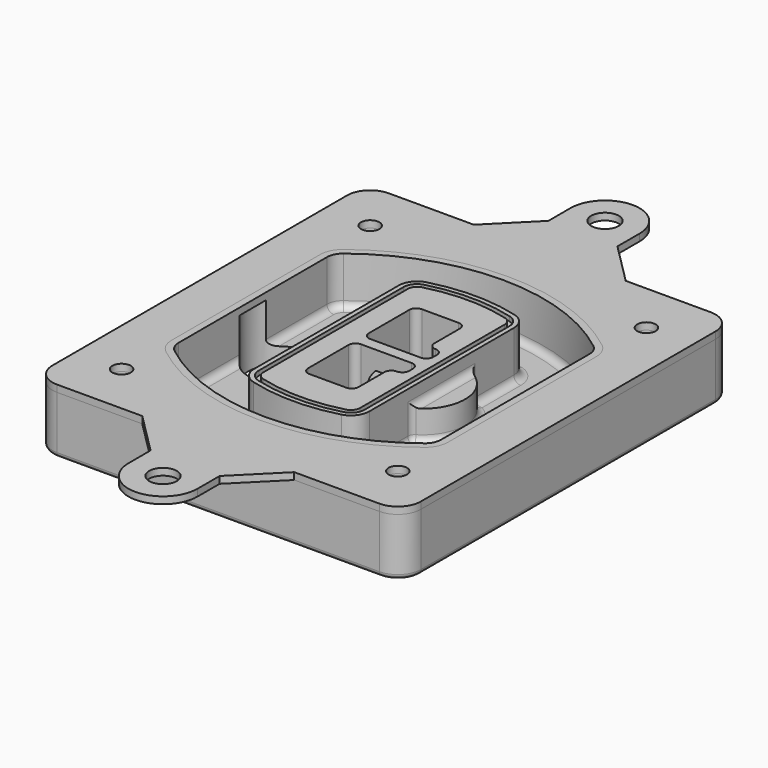
from build123d import *

# Parameters (mm, degrees)
F0_R      = 4
F1_DEPTH  = 25
F2_DEPTH  = 3
F3_DEPTH  = 18
F5_DEPTH  = 21
F6_DEPTH  = 2
F8_DEPTH  = 20
F9_DEPTH  = 16
F10_DEPTH = 25
F7_R      = 6
F7_R_2    = 4
F11_DEPTH = 6
F13_DEPTH = 9
F14_R     = 3
F15_R     = 2
F16_R     = 6
F16_R_2   = 4
F17_DEPTH = 3


with BuildPart() as f1:
    # F0 (on Top) → F1 (new body)
    with BuildSketch(Plane.XY):
        with BuildLine():
            ThreePointArc((-80, -80), (-77.0710678119, -87.0710678119), (-70, -90))
            Line((-70, -90), (70, -90))
            ThreePointArc((70, -90), (77.0710678119, -87.0710678119), (80, -80))
            Line((80, -80), (80, 80))
            ThreePointArc((80, 80), (77.0710678119, 87.0710678119), (70, 90))
            Line((70, 90), (-70, 90))
            ThreePointArc((-70, 90), (-77.0710678119, 87.0710678119), (-80, 80))
            Line((-80, 80), (-80, -80))
        make_face()
        with Locations((-60, -67.5)):
            Circle(F0_R, mode=Mode.SUBTRACT)
        with Locations((60, -67.5)):
            Circle(F0_R, mode=Mode.SUBTRACT)
        with Locations((-60, 67.5)):
            Circle(F0_R, mode=Mode.SUBTRACT)
        with BuildLine():
            ThreePointArc((-64, 40.2934422872), (-62.5820384798, 46.4328484224), (-58.6153846154, 51.3286200352))
            ThreePointArc((-58.6153846154, 51.3286200352), (0, 71.5), (58.6153846154, 51.3286200352))
            ThreePointArc((58.6153846154, 51.3286200352), (62.5820384798, 46.4328484224), (64, 40.2934422872))
            Line((64, 40.2934422872), (64, -40.2934422872))
            ThreePointArc((64, -40.2934422872), (62.5820384798, -46.4328484224), (58.6153846154, -51.3286200352))
            ThreePointArc((58.6153846154, -51.3286200352), (0, -71.5), (-58.6153846154, -51.3286200352))
            ThreePointArc((-58.6153846154, -51.3286200352), (-62.5820384798, -46.4328484224), (-64, -40.2934422872))
            Line((-64, -40.2934422872), (-64, 40.2934422872))
        make_face(mode=Mode.SUBTRACT)
        with Locations((60, 67.5)):
            Circle(F0_R, mode=Mode.SUBTRACT)
        with BuildLine():
            ThreePointArc((58.6153846154, 51.3286200352), (0, 71.5), (-58.6153846154, 51.3286200352))
            ThreePointArc((-58.6153846154, 51.3286200352), (-62.5820384798, 46.4328484224), (-64, 40.2934422872))
            Line((-64, 40.2934422872), (-64, -40.2934422872))
            ThreePointArc((-64, -40.2934422872), (-62.5820384798, -46.4328484224), (-58.6153846154, -51.3286200352))
            ThreePointArc((-58.6153846154, -51.3286200352), (0, -71.5), (58.6153846154, -51.3286200352))
            ThreePointArc((58.6153846154, -51.3286200352), (62.5820384798, -46.4328484224), (64, -40.2934422872))
            Line((64, -40.2934422872), (64, 40.2934422872))
            ThreePointArc((64, 40.2934422872), (62.5820384798, 46.4328484224), (58.6153846154, 51.3286200352))
        make_face()
        with BuildLine():
            Line((-60, -40.2934422872), (-60, 40.2934422872))
            ThreePointArc((-60, 40.2934422872), (-58.9871703427, 44.6787323838), (-56.1538461538, 48.1757121072))
            ThreePointArc((-56.1538461538, 48.1757121072), (0, 67.5), (56.1538461538, 48.1757121072))
            ThreePointArc((56.1538461538, 48.1757121072), (58.9871703427, 44.6787323838), (60, 40.2934422872))
            Line((60, 40.2934422872), (60, -40.2934422872))
            ThreePointArc((60, -40.2934422872), (58.9871703427, -44.6787323838), (56.1538461538, -48.1757121072))
            ThreePointArc((56.1538461538, -48.1757121072), (0, -67.5), (-56.1538461538, -48.1757121072))
            ThreePointArc((-56.1538461538, -48.1757121072), (-58.9871703427, -44.6787323838), (-60, -40.2934422872))
        make_face(mode=Mode.SUBTRACT)
        with BuildLine():
            ThreePointArc((-56.1538461538, 48.1757121072), (-58.9871703427, 44.6787323838), (-60, 40.2934422872))
            Line((-60, 40.2934422872), (-60, -40.2934422872))
            ThreePointArc((-60, -40.2934422872), (-58.9871703427, -44.6787323838), (-56.1538461538, -48.1757121072))
            ThreePointArc((-56.1538461538, -48.1757121072), (0, -67.5), (56.1538461538, -48.1757121072))
            ThreePointArc((56.1538461538, -48.1757121072), (58.9871703427, -44.6787323838), (60, -40.2934422872))
            Line((60, -40.2934422872), (60, 40.2934422872))
            ThreePointArc((60, 40.2934422872), (58.9871703427, 44.6787323838), (56.1538461538, 48.1757121072))
            ThreePointArc((56.1538461538, 48.1757121072), (0, 67.5), (-56.1538461538, 48.1757121072))
        make_face()
        with BuildLine():
            ThreePointArc((54.3076923077, 45.8110311612), (56.2910192399, 43.3631453548), (57, 40.2934422872))
            Line((57, 40.2934422872), (57, -40.2934422872))
            ThreePointArc((57, -40.2934422872), (56.2910192399, -43.3631453548), (54.3076923077, -45.8110311612))
            ThreePointArc((54.3076923077, -45.8110311612), (0, -64.5), (-54.3076923077, -45.8110311612))
            ThreePointArc((-54.3076923077, -45.8110311612), (-56.2910192399, -43.3631453548), (-57, -40.2934422872))
            Line((-57, -40.2934422872), (-57, 40.2934422872))
            ThreePointArc((-57, 40.2934422872), (-56.2910192399, 43.3631453548), (-54.3076923077, 45.8110311612))
            ThreePointArc((-54.3076923077, 45.8110311612), (0, 64.5), (54.3076923077, 45.8110311612))
        make_face(mode=Mode.SUBTRACT)
        with BuildLine():
            Line((57, -40.2934422872), (57, 40.2934422872))
            ThreePointArc((57, 40.2934422872), (56.2910192399, 43.3631453548), (54.3076923077, 45.8110311612))
            ThreePointArc((54.3076923077, 45.8110311612), (0, 64.5), (-54.3076923077, 45.8110311612))
            ThreePointArc((-54.3076923077, 45.8110311612), (-56.2910192399, 43.3631453548), (-57, 40.2934422872))
            Line((-57, 40.2934422872), (-57, -40.2934422872))
            ThreePointArc((-57, -40.2934422872), (-56.2910192399, -43.3631453548), (-54.3076923077, -45.8110311612))
            ThreePointArc((-54.3076923077, -45.8110311612), (0, -64.5), (54.3076923077, -45.8110311612))
            ThreePointArc((54.3076923077, -45.8110311612), (56.2910192399, -43.3631453548), (57, -40.2934422872))
        make_face()
    extrude(amount=-F1_DEPTH)

    # F0 (on Top) → F2 (join)
    with BuildSketch(Plane.XY):
        with BuildLine():
            ThreePointArc((-56.1538461538, 48.1757121072), (-58.9871703427, 44.6787323838), (-60, 40.2934422872))
            Line((-60, 40.2934422872), (-60, -40.2934422872))
            ThreePointArc((-60, -40.2934422872), (-58.9871703427, -44.6787323838), (-56.1538461538, -48.1757121072))
            ThreePointArc((-56.1538461538, -48.1757121072), (0, -67.5), (56.1538461538, -48.1757121072))
            ThreePointArc((56.1538461538, -48.1757121072), (58.9871703427, -44.6787323838), (60, -40.2934422872))
            Line((60, -40.2934422872), (60, 40.2934422872))
            ThreePointArc((60, 40.2934422872), (58.9871703427, 44.6787323838), (56.1538461538, 48.1757121072))
            ThreePointArc((56.1538461538, 48.1757121072), (0, 67.5), (-56.1538461538, 48.1757121072))
        make_face()
        with BuildLine():
            ThreePointArc((54.3076923077, 45.8110311612), (56.2910192399, 43.3631453548), (57, 40.2934422872))
            Line((57, 40.2934422872), (57, -40.2934422872))
            ThreePointArc((57, -40.2934422872), (56.2910192399, -43.3631453548), (54.3076923077, -45.8110311612))
            ThreePointArc((54.3076923077, -45.8110311612), (0, -64.5), (-54.3076923077, -45.8110311612))
            ThreePointArc((-54.3076923077, -45.8110311612), (-56.2910192399, -43.3631453548), (-57, -40.2934422872))
            Line((-57, -40.2934422872), (-57, 40.2934422872))
            ThreePointArc((-57, 40.2934422872), (-56.2910192399, 43.3631453548), (-54.3076923077, 45.8110311612))
            ThreePointArc((-54.3076923077, 45.8110311612), (0, 64.5), (54.3076923077, 45.8110311612))
        make_face(mode=Mode.SUBTRACT)
    extrude(amount=F2_DEPTH)

    # F0 (on Top) → F3 (cut)
    with BuildSketch(Plane.XY):
        with BuildLine():
            Line((57, -40.2934422872), (57, 40.2934422872))
            ThreePointArc((57, 40.2934422872), (56.2910192399, 43.3631453548), (54.3076923077, 45.8110311612))
            ThreePointArc((54.3076923077, 45.8110311612), (0, 64.5), (-54.3076923077, 45.8110311612))
            ThreePointArc((-54.3076923077, 45.8110311612), (-56.2910192399, 43.3631453548), (-57, 40.2934422872))
            Line((-57, 40.2934422872), (-57, -40.2934422872))
            ThreePointArc((-57, -40.2934422872), (-56.2910192399, -43.3631453548), (-54.3076923077, -45.8110311612))
            ThreePointArc((-54.3076923077, -45.8110311612), (0, -64.5), (54.3076923077, -45.8110311612))
            ThreePointArc((54.3076923077, -45.8110311612), (56.2910192399, -43.3631453548), (57, -40.2934422872))
        make_face()
    extrude(amount=-F3_DEPTH, mode=Mode.SUBTRACT)

    # F4 (on face) → F5 (join, through all)
    with BuildSketch(Plane.XY.offset(3)):
        with BuildLine():
            ThreePointArc((-25, -39.2465276821), (-23.3511545998, -44.1109737193), (-19.0842911877, -46.9702398883))
            ThreePointArc((-19.0842911877, -46.9702398883), (0, -49.5), (19.0842911877, -46.9702398883))
            ThreePointArc((19.0842911877, -46.9702398883), (23.3511545998, -44.1109737193), (25, -39.2465276821))
            Line((25, -39.2465276821), (25, 39.2465276821))
            ThreePointArc((25, 39.2465276821), (23.3511545998, 44.1109737193), (19.0842911877, 46.9702398883))
            ThreePointArc((19.0842911877, 46.9702398883), (0, 49.5), (-19.0842911877, 46.9702398883))
            ThreePointArc((-19.0842911877, 46.9702398883), (-23.3511545998, 44.1109737193), (-25, 39.2465276821))
            Line((-25, 39.2465276821), (-25, -39.2465276821))
        make_face()
        with BuildLine():
            ThreePointArc((18.5632183908, 45.0393118368), (21.7633659499, 42.89486221), (23, 39.2465276821))
            Line((23, 39.2465276821), (23, -39.2465276821))
            ThreePointArc((23, -39.2465276821), (21.7633659499, -42.89486221), (18.5632183908, -45.0393118368))
            ThreePointArc((18.5632183908, -45.0393118368), (0, -47.5), (-18.5632183908, -45.0393118368))
            ThreePointArc((-18.5632183908, -45.0393118368), (-21.7633659499, -42.89486221), (-23, -39.2465276821))
            Line((-23, -39.2465276821), (-23, 39.2465276821))
            ThreePointArc((-23, 39.2465276821), (-21.7633659499, 42.89486221), (-18.5632183908, 45.0393118368))
            ThreePointArc((-18.5632183908, 45.0393118368), (0, 47.5), (18.5632183908, 45.0393118368))
        make_face(mode=Mode.SUBTRACT)
        with BuildLine():
            Line((23, -39.2465276821), (23, 39.2465276821))
            ThreePointArc((23, 39.2465276821), (21.7633659499, 42.89486221), (18.5632183908, 45.0393118368))
            ThreePointArc((18.5632183908, 45.0393118368), (0, 47.5), (-18.5632183908, 45.0393118368))
            ThreePointArc((-18.5632183908, 45.0393118368), (-21.7633659499, 42.89486221), (-23, 39.2465276821))
            Line((-23, 39.2465276821), (-23, -39.2465276821))
            ThreePointArc((-23, -39.2465276821), (-21.7633659499, -42.89486221), (-18.5632183908, -45.0393118368))
            ThreePointArc((-18.5632183908, -45.0393118368), (0, -47.5), (18.5632183908, -45.0393118368))
            ThreePointArc((18.5632183908, -45.0393118368), (21.7633659499, -42.89486221), (23, -39.2465276821))
        make_face()
        with BuildLine():
            ThreePointArc((18.0421455939, 43.1083837852), (20.1755772999, 41.6787507007), (21, 39.2465276821))
            Line((21, 39.2465276821), (21, -39.2465276821))
            ThreePointArc((21, -39.2465276821), (20.1755772999, -41.6787507007), (18.0421455939, -43.1083837852))
            ThreePointArc((18.0421455939, -43.1083837852), (0, -45.5), (-18.0421455939, -43.1083837852))
            ThreePointArc((-18.0421455939, -43.1083837852), (-20.1755772999, -41.6787507007), (-21, -39.2465276821))
            Line((-21, -39.2465276821), (-21, 39.2465276821))
            ThreePointArc((-21, 39.2465276821), (-20.1755772999, 41.6787507007), (-18.0421455939, 43.1083837852))
            ThreePointArc((-18.0421455939, 43.1083837852), (0, 45.5), (18.0421455939, 43.1083837852))
        make_face(mode=Mode.SUBTRACT)
        with BuildLine():
            Line((21, -39.2465276821), (21, 39.2465276821))
            ThreePointArc((21, 39.2465276821), (20.1755772999, 41.6787507007), (18.0421455939, 43.1083837852))
            ThreePointArc((18.0421455939, 43.1083837852), (0, 45.5), (-18.0421455939, 43.1083837852))
            ThreePointArc((-18.0421455939, 43.1083837852), (-20.1755772999, 41.6787507007), (-21, 39.2465276821))
            Line((-21, 39.2465276821), (-21, -39.2465276821))
            ThreePointArc((-21, -39.2465276821), (-20.1755772999, -41.6787507007), (-18.0421455939, -43.1083837852))
            ThreePointArc((-18.0421455939, -43.1083837852), (0, -45.5), (18.0421455939, -43.1083837852))
            ThreePointArc((18.0421455939, -43.1083837852), (20.1755772999, -41.6787507007), (21, -39.2465276821))
        make_face()
        with BuildLine():
            Line((-8, -2.5), (14, -2.5))
            ThreePointArc((14, -2.5), (16.1213203436, -3.3786796564), (17, -5.5))
            Line((17, -5.5), (17, -7.5))
            ThreePointArc((17, -7.5), (16.1213203436, -9.6213203436), (14, -10.5))
            ThreePointArc((14, -10.5), (11.8786796564, -11.3786796564), (11, -13.5))
            Line((11, -13.5), (11, -27.5))
            ThreePointArc((11, -27.5), (10.1213203436, -29.6213203436), (8, -30.5))
            Line((8, -30.5), (-8, -30.5))
            ThreePointArc((-8, -30.5), (-10.1213203436, -29.6213203436), (-11, -27.5))
            Line((-11, -27.5), (-11, -5.5))
            ThreePointArc((-11, -5.5), (-10.1213203436, -3.3786796564), (-8, -2.5))
        make_face(mode=Mode.SUBTRACT)
        with BuildLine():
            ThreePointArc((-8, 2.5), (-10.1213203436, 3.3786796564), (-11, 5.5))
            Line((-11, 5.5), (-11, 27.5))
            ThreePointArc((-11, 27.5), (-10.1213203436, 29.6213203436), (-8, 30.5))
            Line((-8, 30.5), (8, 30.5))
            ThreePointArc((8, 30.5), (10.1213203436, 29.6213203436), (11, 27.5))
            Line((11, 27.5), (11, 13.5))
            ThreePointArc((11, 13.5), (11.8786796564, 11.3786796564), (14, 10.5))
            ThreePointArc((14, 10.5), (16.1213203436, 9.6213203436), (17, 7.5))
            Line((17, 7.5), (17, 5.5))
            ThreePointArc((17, 5.5), (16.1213203436, 3.3786796564), (14, 2.5))
            Line((14, 2.5), (-8, 2.5))
        make_face(mode=Mode.SUBTRACT)
    extrude(amount=-F5_DEPTH)

    # F4 (on face) → F6 (cut)
    with BuildSketch(Plane.XY.offset(3)):
        with BuildLine():
            Line((23, -39.2465276821), (23, 39.2465276821))
            ThreePointArc((23, 39.2465276821), (21.7633659499, 42.89486221), (18.5632183908, 45.0393118368))
            ThreePointArc((18.5632183908, 45.0393118368), (0, 47.5), (-18.5632183908, 45.0393118368))
            ThreePointArc((-18.5632183908, 45.0393118368), (-21.7633659499, 42.89486221), (-23, 39.2465276821))
            Line((-23, 39.2465276821), (-23, -39.2465276821))
            ThreePointArc((-23, -39.2465276821), (-21.7633659499, -42.89486221), (-18.5632183908, -45.0393118368))
            ThreePointArc((-18.5632183908, -45.0393118368), (0, -47.5), (18.5632183908, -45.0393118368))
            ThreePointArc((18.5632183908, -45.0393118368), (21.7633659499, -42.89486221), (23, -39.2465276821))
        make_face()
        with BuildLine():
            ThreePointArc((18.0421455939, 43.1083837852), (20.1755772999, 41.6787507007), (21, 39.2465276821))
            Line((21, 39.2465276821), (21, -39.2465276821))
            ThreePointArc((21, -39.2465276821), (20.1755772999, -41.6787507007), (18.0421455939, -43.1083837852))
            ThreePointArc((18.0421455939, -43.1083837852), (0, -45.5), (-18.0421455939, -43.1083837852))
            ThreePointArc((-18.0421455939, -43.1083837852), (-20.1755772999, -41.6787507007), (-21, -39.2465276821))
            Line((-21, -39.2465276821), (-21, 39.2465276821))
            ThreePointArc((-21, 39.2465276821), (-20.1755772999, 41.6787507007), (-18.0421455939, 43.1083837852))
            ThreePointArc((-18.0421455939, 43.1083837852), (0, 45.5), (18.0421455939, 43.1083837852))
        make_face(mode=Mode.SUBTRACT)
    extrude(amount=-F6_DEPTH, mode=Mode.SUBTRACT)

    # F7 (on face) → F8 (join)
    with BuildSketch(Plane(origin=(0, 0, -25), x_dir=(1, 0, 0), z_dir=(0, 0, -1))):
        with BuildLine():
            ThreePointArc((3.28842436, 0), (16.7567035675, 13.4682792075), (30.224982775, 0))
            Line((30.224982775, 0), (35.224982775, 0))
            ThreePointArc((35.224982775, 0), (16.7567035675, 18.4682792075), (-1.71157564, 0))
            Line((-1.71157564, 0), (3.28842436, 0))
        make_face()
        with BuildLine():
            Line((3.28842436, 0), (30.224982775, 0))
            ThreePointArc((30.224982775, 0), (16.7567035675, 13.4682792075), (3.28842436, 0))
        make_face()
        with BuildLine():
            ThreePointArc((3.28842436, 0), (16.7567035675, -13.4682792075), (30.224982775, 0))
            Line((30.224982775, 0), (3.28842436, 0))
        make_face()
        with BuildLine():
            Line((35.224982775, 0), (30.224982775, 0))
            ThreePointArc((30.224982775, 0), (16.7567035675, -13.4682792075), (3.28842436, 0))
            Line((3.28842436, 0), (-1.71157564, 0))
            ThreePointArc((-1.71157564, 0), (16.7567035675, -18.4682792075), (35.224982775, 0))
        make_face()
    extrude(amount=-F8_DEPTH)

    # F7 (on face) → F9 (cut)
    with BuildSketch(Plane(origin=(0, 0, -25), x_dir=(1, 0, 0), z_dir=(0, 0, -1))):
        with BuildLine():
            Line((3.28842436, 0), (30.224982775, 0))
            ThreePointArc((30.224982775, 0), (16.7567035675, 13.4682792075), (3.28842436, 0))
        make_face()
        with BuildLine():
            ThreePointArc((3.28842436, 0), (16.7567035675, -13.4682792075), (30.224982775, 0))
            Line((30.224982775, 0), (3.28842436, 0))
        make_face()
    extrude(amount=-F9_DEPTH, mode=Mode.SUBTRACT)

    # F7 (on face) → F10 (cut)
    with BuildSketch(Plane(origin=(0, 0, -25), x_dir=(1, 0, 0), z_dir=(0, 0, -1))):
        with BuildLine():
            Line((-59.0318229325, 0), (-32.0952645175, 0))
            ThreePointArc((-32.0952645175, 0), (-45.563543725, 13.4682792075), (-59.0318229325, 0))
        make_face()
        with BuildLine():
            ThreePointArc((-59.0318229325, 0), (-45.563543725, -13.4682792075), (-32.0952645175, 0))
            Line((-32.0952645175, 0), (-59.0318229325, 0))
        make_face()
    extrude(amount=-F10_DEPTH, mode=Mode.SUBTRACT)

    # F7 (on face) → F11 (cut)
    with BuildSketch(Plane(origin=(0, 0, -25), x_dir=(1, 0, 0), z_dir=(0, 0, -1))):
        with Locations((60, -67.5)):
            Circle(F7_R)
        with Locations((60, -67.5)):
            Circle(F7_R_2, mode=Mode.SUBTRACT)
        with Locations((60, -67.5)):
            Circle(F7_R)
        with Locations((60, -67.5)):
            Circle(F7_R_2, mode=Mode.SUBTRACT)
        with Locations((-60, -67.5)):
            Circle(F7_R)
        with Locations((-60, -67.5)):
            Circle(F7_R_2, mode=Mode.SUBTRACT)
        with Locations((-60, -67.5)):
            Circle(F7_R)
        with Locations((-60, -67.5)):
            Circle(F7_R_2, mode=Mode.SUBTRACT)
        with Locations((-60, 67.5)):
            Circle(F7_R)
        with Locations((-60, 67.5)):
            Circle(F7_R_2, mode=Mode.SUBTRACT)
        with Locations((-60, 67.5)):
            Circle(F7_R)
        with Locations((-60, 67.5)):
            Circle(F7_R_2, mode=Mode.SUBTRACT)
        with Locations((60, 67.5)):
            Circle(F7_R)
        with Locations((60, 67.5)):
            Circle(F7_R_2, mode=Mode.SUBTRACT)
        with Locations((60, 67.5)):
            Circle(F7_R)
        with Locations((60, 67.5)):
            Circle(F7_R_2, mode=Mode.SUBTRACT)
    extrude(amount=-F11_DEPTH, mode=Mode.SUBTRACT)

    # F12 (on face) → F13 (cut, through all)
    with BuildSketch(Plane(origin=(0, 0, -9), x_dir=(1, 0, 0), z_dir=(0, 0, -1))):
        with BuildLine():
            Line((11, 13.5), (11, 17.5481537753))
            ThreePointArc((11, 17.5481537753), (2.5696536419, 11.8239143813), (-1.5415842455, 2.5))
            Line((-1.5415842455, 2.5), (3.5224848595, 2.5))
            ThreePointArc((3.5224848595, 2.5), (6.1857188154, 8.3455872281), (11.2536447004, 12.2927168648))
            ThreePointArc((11.2536447004, 12.2927168648), (11.0640958889, 12.8831798879), (11, 13.5))
        make_face()
        with BuildLine():
            ThreePointArc((11.2536447004, -12.2927168648), (6.1857188154, -8.3455872281), (3.5224848595, -2.5))
            Line((3.5224848595, -2.5), (-1.5415842455, -2.5))
            ThreePointArc((-1.5415842455, -2.5), (2.5696536419, -11.8239143813), (11, -17.5481537753))
            Line((11, -17.5481537753), (11, -13.5))
            ThreePointArc((11, -13.5), (11.0640958889, -12.8831798879), (11.2536447004, -12.2927168648))
        make_face()
        with BuildLine():
            ThreePointArc((11.2536447004, 12.2927168648), (6.1857188154, 8.3455872281), (3.5224848595, 2.5))
            Line((3.5224848595, 2.5), (14, 2.5))
            ThreePointArc((14, 2.5), (16.1213203436, 3.3786796564), (17, 5.5))
            Line((17, 5.5), (17, 7.5))
            ThreePointArc((17, 7.5), (16.1213203436, 9.6213203436), (14, 10.5))
            ThreePointArc((14, 10.5), (12.3601599782, 10.9878446101), (11.2536447004, 12.2927168648))
        make_face()
        with BuildLine():
            Line((14, -2.5), (3.5224848595, -2.5))
            ThreePointArc((3.5224848595, -2.5), (6.1857188154, -8.3455872281), (11.2536447004, -12.2927168648))
            ThreePointArc((11.2536447004, -12.2927168648), (12.3601599782, -10.9878446101), (14, -10.5))
            ThreePointArc((14, -10.5), (16.1213203436, -9.6213203436), (17, -7.5))
            Line((17, -7.5), (17, -5.5))
            ThreePointArc((17, -5.5), (16.1213203436, -3.3786796564), (14, -2.5))
        make_face()
    extrude(amount=F13_DEPTH, mode=Mode.SUBTRACT)

    # F14
    f14_edges = [f1.edges().sort_by_distance(p)[0] for p in [
        (-57, -23.703476, -18),
        (-57, 23.703476, -18),
        (25, 0, -5),
        (25, 16.526506, -11.5),
        (25, -16.526506, -11.5),
        (25, -27.886517, -18),
        (35.224983, 0, -18),
    ]]
    fillet(f14_edges, radius=F14_R)

    # F15
    f15_edges = [f1.edges().sort_by_distance(p)[0] for p in [
        (0, -90, -25),
    ]]
    fillet(f15_edges, radius=F15_R)


with BuildPart() as f17:
    # F16 (on face) → F17 (new body, through all)
    with BuildSketch(Plane.XY):
        with BuildLine():
            Line((-15, 108), (-33, 90))
            Line((-33, 90), (33, 90))
            Line((33, 90), (15, 108))
            Line((15, 108), (15, 120))
            ThreePointArc((15, 120), (0, 135), (-15, 120))
            Line((-15, 120), (-15, 108))
        make_face()
        with Locations((0, 120)):
            Circle(F16_R, mode=Mode.SUBTRACT)
        with BuildLine():
            Line((33, -90), (-33, -90))
            Line((-33, -90), (-15, -108))
            Line((-15, -108), (-15, -120))
            ThreePointArc((-15, -120), (0, -135), (15, -120))
            Line((15, -120), (15, -108))
            Line((15, -108), (33, -90))
        make_face()
        with Locations((0, -120)):
            Circle(F16_R, mode=Mode.SUBTRACT)
        with BuildLine():
            Line((33, 90), (-33, 90))
            Line((-33, 90), (-70, 90))
            ThreePointArc((-70, 90), (-77.0710678119, 87.0710678119), (-80, 80))
            Line((-80, 80), (-80, -80))
            ThreePointArc((-80, -80), (-77.0710678119, -87.0710678119), (-70, -90))
            Line((-70, -90), (-33, -90))
            Line((-33, -90), (33, -90))
            Line((33, -90), (70, -90))
            ThreePointArc((70, -90), (77.0710678119, -87.0710678119), (80, -80))
            Line((80, -80), (80, 80))
            ThreePointArc((80, 80), (77.0710678119, 87.0710678119), (70, 90))
            Line((70, 90), (33, 90))
        make_face()
        with Locations((-60, -67.5)):
            Circle(F16_R_2, mode=Mode.SUBTRACT)
        with Locations((60, -67.5)):
            Circle(F16_R_2, mode=Mode.SUBTRACT)
        with Locations((-60, 67.5)):
            Circle(F16_R_2, mode=Mode.SUBTRACT)
        with BuildLine():
            ThreePointArc((-60, 40.2934422872), (-58.9871703427, 44.6787323838), (-56.1538461538, 48.1757121072))
            ThreePointArc((-56.1538461538, 48.1757121072), (0, 67.5), (56.1538461538, 48.1757121072))
            ThreePointArc((56.1538461538, 48.1757121072), (58.9871703427, 44.6787323838), (60, 40.2934422872))
            Line((60, 40.2934422872), (60, -40.2934422872))
            ThreePointArc((60, -40.2934422872), (58.9871703427, -44.6787323838), (56.1538461538, -48.1757121072))
            ThreePointArc((56.1538461538, -48.1757121072), (0, -67.5), (-56.1538461538, -48.1757121072))
            ThreePointArc((-56.1538461538, -48.1757121072), (-58.9871703427, -44.6787323838), (-60, -40.2934422872))
            Line((-60, -40.2934422872), (-60, 40.2934422872))
        make_face(mode=Mode.SUBTRACT)
        with Locations((60, 67.5)):
            Circle(F16_R_2, mode=Mode.SUBTRACT)
    extrude(amount=F17_DEPTH)


solid = Compound([f1.part, f17.part])
